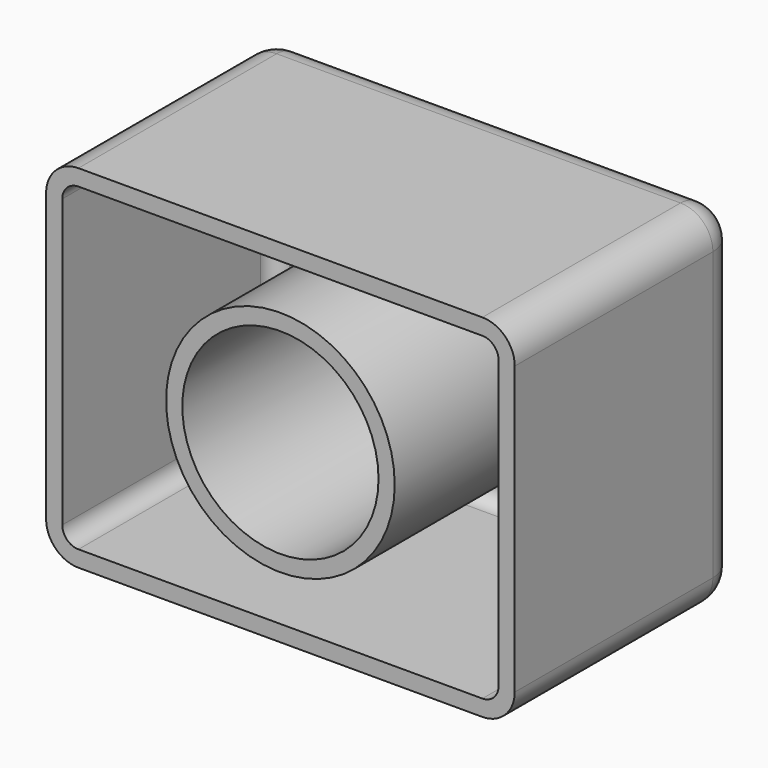
from build123d import *

# Parameters (mm, degrees)
F0_W     = 73.534466
F0_H     = 55.191916
F0_R     = 15.396007
F1_DEPTH = 43.942
F2_R     = 5.08
F3_T     = -2.54


with BuildPart() as f1:
    # F0 (on Front) → F1 (new body)
    with BuildSketch(Plane.XZ):
        Rectangle(F0_W, F0_H)
        Circle(F0_R, mode=Mode.SUBTRACT)
    extrude(amount=F1_DEPTH)

    # F2
    f2_edges = [f1.edges().sort_by_distance(p)[0] for p in [
        (36.767233, 0, 0),
        (0, 0, 27.595958),
        (-36.767233, 0, 0),
        (0, 0, -27.595958),
        (-15.396007, 0, 0),
        (-36.767233, -21.971, -27.595958),
        (36.767233, -21.971, -27.595958),
        (36.767233, -21.971, 27.595958),
        (-36.767233, -21.971, 27.595958),
    ]]
    fillet(f2_edges, radius=F2_R)

    # F3
    f3_openings = [f1.faces().sort_by_distance(p)[0] for p in [
        (35.847806, -43.942, 0),
    ]]
    offset(amount=F3_T, openings=f3_openings)


solid = f1.part
